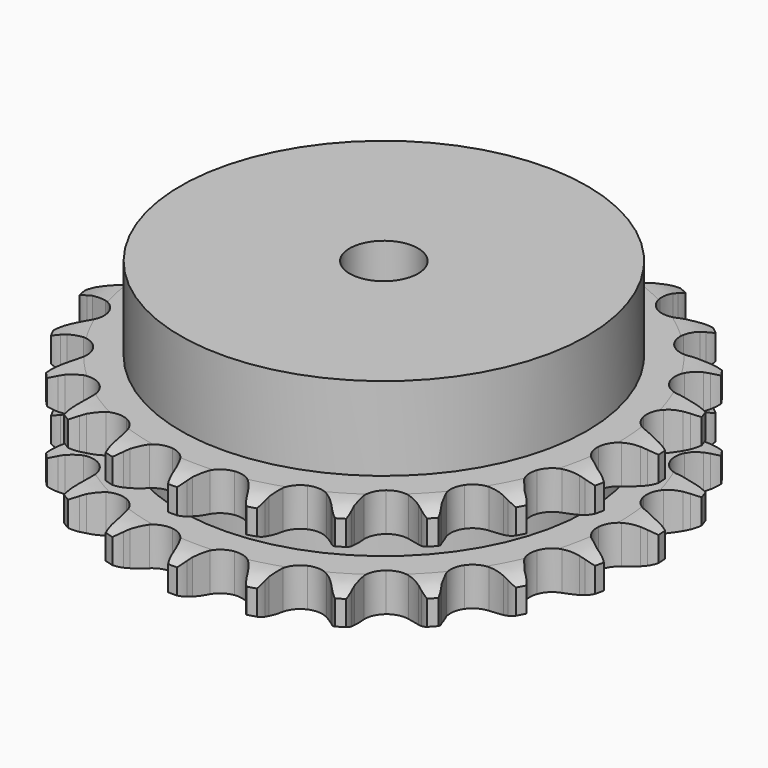
from build123d import *

# Parameters (mm, degrees)
PAD_DEPTH         = 25.5
SKETCH001_R       = 47.5
PAD001_DEPTH      = 45
SKETCH002_R       = 8
POCKET_DEPTH      = 0.001
POCKET_DEPTH_BACK = 45.001


with BuildPart() as part:
    # Sprocket → Pad (new body)
    with BuildSketch(Plane.XY):
        with BuildLine():
            ThreePointArc((-8.611223, 62.651298), (-7.296474, 61.202922), (-6.354928, 59.488323))
            Line((-6.354928, 59.488323), (-5.862367, 58.271851))
            ThreePointArc((-5.862367, 58.271851), (-5.074568, 56.651946), (-4.074665, 55.153641))
            ThreePointArc((-4.074665, 55.153641), (-2.270535, 53.67732), (0, 53.149041))
            ThreePointArc((0, 53.149041), (2.270535, 53.67732), (4.074665, 55.153641))
            ThreePointArc((4.074665, 55.153641), (5.074568, 56.651946), (5.862367, 58.271851))
            Line((5.862367, 58.271851), (6.354928, 59.488323))
            ThreePointArc((6.354928, 59.488323), (7.296474, 61.202922), (8.611223, 62.651298))
            ThreePointArc((8.611223, 62.651298), (9.486449, 60.901917), (9.930488, 58.996874))
            Line((9.930488, 58.996874), (10.076583, 57.69262))
            ThreePointArc((10.076583, 57.69262), (10.398123, 55.92024), (10.956708, 54.207726))
            ThreePointArc((10.956708, 54.207726), (12.29563, 52.299403), (14.33944, 51.178131))
            ThreePointArc((14.33944, 51.178131), (16.668305, 51.074237), (18.80384, 52.009063))
            Line((18.80384, 52.009063), (21.366532, 54.529325))
            ThreePointArc((21.366532, 54.529325), (21.754935, 55.058486), (22.169027, 55.567796))
            ThreePointArc((22.169027, 55.567796), (23.538252, 56.964786), (25.195013, 58.004738))
            ThreePointArc((25.195013, 58.004738), (25.565807, 56.084095), (25.479404, 54.129896))
            Line((25.479404, 54.129896), (25.268198, 52.834592))
            ThreePointArc((25.268198, 52.834592), (25.099633, 51.041185), (25.175473, 49.241472))
            ThreePointArc((25.175473, 49.241472), (25.949885, 47.042678), (27.615389, 45.411572))
            ThreePointArc((27.615389, 45.411572), (29.829863, 44.683211), (32.13842, 45.00721))
            Line((32.13842, 45.00721), (35.286038, 46.742608))
            ThreePointArc((35.286038, 46.742608), (35.802805, 47.147357), (36.338951, 47.526059))
            ThreePointArc((36.338951, 47.526059), (38.034305, 48.501833), (39.910205, 49.056232))
            ThreePointArc((39.910205, 49.056232), (39.749065, 47.106772), (39.13863, 45.248352))
            Line((39.13863, 45.248352), (38.585787, 44.058063))
            ThreePointArc((38.585787, 44.058063), (37.939617, 42.37664), (37.527089, 40.623203))
            ThreePointArc((37.527089, 40.623203), (37.679555, 38.297013), (38.843231, 36.277045))
            ThreePointArc((38.843231, 36.277045), (40.779077, 34.978235), (43.08944, 34.667379))
            Line((43.08944, 34.667379), (46.588541, 35.489206))
            ThreePointArc((46.588541, 35.489206), (47.195344, 35.739524), (47.813782, 35.959532))
            ThreePointArc((47.813782, 35.959532), (49.709528, 36.441721), (51.665439, 36.469449))
            ThreePointArc((51.665439, 36.469449), (50.984317, 34.635756), (49.895123, 33.010944))
            Line((49.895123, 33.010944), (49.041645, 32.01395))
            ThreePointArc((49.041645, 32.01395), (47.965794, 30.569213), (47.095492, 28.992097))
            ThreePointArc((47.095492, 28.992097), (46.614706, 26.711033), (47.190248, 24.452016))
            ThreePointArc((47.190248, 24.452016), (48.703893, 22.679084), (50.844714, 21.756427))
            Line((50.844714, 21.756427), (54.435785, 21.603732))
            ThreePointArc((54.435785, 21.603732), (55.087621, 21.681054), (55.742483, 21.726051))
            ThreePointArc((55.742483, 21.726051), (57.698022, 21.678893), (59.588884, 21.177895))
            ThreePointArc((59.588884, 21.177895), (58.438295, 19.595964), (56.951122, 18.325266))
            Line((56.951122, 18.325266), (55.860308, 17.595509))
            ThreePointArc((55.860308, 17.595509), (54.434567, 16.494607), (53.171037, 15.21078))
            ThreePointArc((53.171037, 15.21078), (52.092656, 13.144018), (52.03738, 10.813492))
            ThreePointArc((52.03738, 10.813492), (53.016564, 8.697929), (54.829068, 7.2319))
            Line((54.829068, 7.2319), (58.245776, 6.116008))
            ThreePointArc((58.245776, 6.116008), (58.894301, 6.014599), (59.537019, 5.881248))
            ThreePointArc((59.537019, 5.881248), (61.407318, 5.308241), (63.092894, 4.315672))
            ThreePointArc((63.092894, 4.315672), (61.558173, 3.102829), (59.783318, 2.280486))
            Line((59.783318, 2.280486), (58.536068, 1.872089))
            ThreePointArc((58.536068, 1.872089), (56.866178, 1.196672), (55.30313, 0.301349))
            ThreePointArc((55.30313, 0.301349), (53.707133, -1.397828), (53.025138, -3.627019))
            ThreePointArc((53.025138, -3.627019), (53.397239, -5.928312), (54.747, -7.828984))
            Line((54.747, -7.828984), (57.735944, -9.825312))
            ThreePointArc((57.735944, -9.825312), (58.33306, -10.09793), (58.915966, -10.39974))
            ThreePointArc((58.915966, -10.39974), (60.562315, -11.4561), (61.917593, -12.866624))
            ThreePointArc((61.917593, -12.866624), (60.112562, -13.620428), (58.181658, -13.933427))
            Line((58.181658, -13.933427), (56.870475, -13.990176))
            ThreePointArc((56.870475, -13.990176), (55.080284, -14.190015), (53.333643, -14.630432))
            ThreePointArc((53.333643, -14.630432), (51.338397, -15.836004), (50.080265, -17.79853))
            ThreePointArc((50.080265, -17.79853), (49.817686, -20.114877), (50.604598, -22.309228))
            Line((50.604598, -22.309228), (52.944101, -25.037934))
            ThreePointArc((52.944101, -25.037934), (53.445523, -25.461543), (53.925386, -25.909427))
            ThreePointArc((53.925386, -25.909427), (55.225681, -27.370793), (56.150147, -29.094661))
            ThreePointArc((56.150147, -29.094661), (54.208677, -29.333521), (52.264931, -29.113961))
            Line((52.264931, -29.113961), (50.987059, -28.814852))
            ThreePointArc((50.987059, -28.814852), (49.209337, -28.524293), (47.408644, -28.477141))
            ThreePointArc((47.408644, -28.477141), (45.162128, -29.099696), (43.421166, -30.650006))
            ThreePointArc((43.421166, -30.650006), (42.543382, -32.809613), (42.709085, -35.134899))
            Line((42.709085, -35.134899), (44.225636, -38.393607))
            ThreePointArc((44.225636, -38.393607), (44.594176, -38.936789), (44.935407, -39.49753))
            ThreePointArc((44.935407, -39.49753), (45.793211, -41.25552), (46.218302, -43.164881))
            ThreePointArc((46.218302, -43.164881), (44.284383, -42.87108), (42.471953, -42.135246))
            Line((42.471953, -42.135246), (41.322167, -41.502464))
            ThreePointArc((41.322167, -41.502464), (39.688759, -40.743055), (37.967562, -40.21183))
            ThreePointArc((37.967562, -40.21183), (35.63639, -40.205196), (33.541719, -41.228311))
            ThreePointArc((33.541719, -41.228311), (32.11383, -43.071011), (31.646034, -45.354774))
            Line((31.646034, -45.354774), (32.227158, -48.901802))
            ThreePointArc((32.227158, -48.901802), (32.435483, -49.524272), (32.612774, -50.156282))
            ThreePointArc((32.612774, -50.156282), (32.964469, -52.080514), (32.858656, -54.033758))
            ThreePointArc((32.858656, -54.033758), (31.075719, -53.229088), (29.529024, -52.031552))
            Line((29.529024, -52.031552), (28.592598, -51.112027))
            ThreePointArc((28.592598, -51.112027), (27.224648, -49.940092), (25.7106, -48.964192))
            ThreePointArc((25.7106, -48.964192), (23.467663, -48.328861), (21.174636, -48.748901))
            ThreePointArc((21.174636, -48.748901), (19.302542, -50.138029), (18.235942, -52.210894))
            Line((18.235942, -52.210894), (17.83854, -55.783173))
            ThreePointArc((17.83854, -55.783173), (17.871198, -56.438766), (17.871401, -57.095172))
            ThreePointArc((17.871401, -57.095172), (17.690902, -59.042935), (17.062035, -60.895199))
            ThreePointArc((17.062035, -60.895199), (15.562311, -59.639338), (14.396063, -58.068916))
            Line((14.396063, -58.068916), (13.742447, -56.930845))
            ThreePointArc((13.742447, -56.930845), (12.741408, -55.433299), (11.5468, -54.085104))
            ThreePointArc((11.5468, -54.085104), (9.558448, -52.868196), (7.237127, -52.654008))
            ThreePointArc((7.237127, -52.654008), (5.059674, -53.486538), (3.473373, -55.194771))
            Line((3.473373, -55.194771), (2.126918, -58.527362))
            ThreePointArc((2.126918, -58.527362), (1.981489, -59.167455), (1.804588, -59.799575))
            ThreePointArc((1.804588, -59.799575), (1.105282, -61.626411), (0, -63.240322))
            ThreePointArc((0, -63.240322), (-1.105282, -61.626411), (-1.804588, -59.799575))
            Line((-1.804588, -59.799575), (-2.126918, -58.527362))
            ThreePointArc((-2.126918, -58.527362), (-2.686803, -56.815273), (-3.473373, -55.194771))
            ThreePointArc((-3.473373, -55.194771), (-5.059674, -53.486538), (-7.237127, -52.654008))
            ThreePointArc((-7.237127, -52.654008), (-9.558448, -52.868196), (-11.5468, -54.085104))
            Line((-11.5468, -54.085104), (-13.742447, -56.930845))
            ThreePointArc((-13.742447, -56.930845), (-14.055179, -57.507965), (-14.396063, -58.068916))
            ThreePointArc((-14.396063, -58.068916), (-15.562311, -59.639338), (-17.062035, -60.895199))
            ThreePointArc((-17.062035, -60.895199), (-17.690902, -59.042935), (-17.871401, -57.095172))
            Line((-17.871401, -57.095172), (-17.83854, -55.783173))
            ThreePointArc((-17.83854, -55.783173), (-17.915746, -53.983518), (-18.235942, -52.210894))
            ThreePointArc((-18.235942, -52.210894), (-19.302542, -50.138029), (-21.174636, -48.748901))
            ThreePointArc((-21.174636, -48.748901), (-23.467663, -48.328861), (-25.7106, -48.964192))
            Line((-25.7106, -48.964192), (-28.592598, -51.112027))
            ThreePointArc((-28.592598, -51.112027), (-29.049438, -51.583372), (-29.529024, -52.031552))
            ThreePointArc((-29.529024, -52.031552), (-31.075719, -53.229088), (-32.858656, -54.033758))
            ThreePointArc((-32.858656, -54.033758), (-32.964469, -52.080514), (-32.612774, -50.156282))
            Line((-32.612774, -50.156282), (-32.227158, -48.901802))
            ThreePointArc((-32.227158, -48.901802), (-31.815961, -47.148052), (-31.646034, -45.354774))
            ThreePointArc((-31.646034, -45.354774), (-32.11383, -43.071011), (-33.541719, -41.228311))
            ThreePointArc((-33.541719, -41.228311), (-35.63639, -40.205196), (-37.967562, -40.21183))
            Line((-37.967562, -40.21183), (-41.322167, -41.502464))
            ThreePointArc((-41.322167, -41.502464), (-41.889233, -41.833076), (-42.471953, -42.135246))
            ThreePointArc((-42.471953, -42.135246), (-44.284383, -42.87108), (-46.218302, -43.164881))
            ThreePointArc((-46.218302, -43.164881), (-45.793211, -41.25552), (-44.935407, -39.49753))
            Line((-44.935407, -39.49753), (-44.225636, -38.393607))
            ThreePointArc((-44.225636, -38.393607), (-43.356531, -36.815831), (-42.709085, -35.134899))
            ThreePointArc((-42.709085, -35.134899), (-42.543382, -32.809613), (-43.421166, -30.650006))
            ThreePointArc((-43.421166, -30.650006), (-45.162128, -29.099696), (-47.408644, -28.477141))
            Line((-47.408644, -28.477141), (-50.987059, -28.814852))
            ThreePointArc((-50.987059, -28.814852), (-51.622295, -28.980212), (-52.264931, -29.113961))
            ThreePointArc((-52.264931, -29.113961), (-54.208677, -29.333521), (-56.150147, -29.094661))
            ThreePointArc((-56.150147, -29.094661), (-55.225681, -27.370793), (-53.925386, -25.909427))
            Line((-53.925386, -25.909427), (-52.944101, -25.037934))
            ThreePointArc((-52.944101, -25.037934), (-51.681545, -23.753148), (-50.604598, -22.309228))
            ThreePointArc((-50.604598, -22.309228), (-49.817686, -20.114877), (-50.080265, -17.79853))
            ThreePointArc((-50.080265, -17.79853), (-51.338397, -15.836004), (-53.333643, -14.630432))
            Line((-53.333643, -14.630432), (-56.870475, -13.990176))
            ThreePointArc((-56.870475, -13.990176), (-57.526768, -13.978019), (-58.181658, -13.933427))
            ThreePointArc((-58.181658, -13.933427), (-60.112562, -13.620428), (-61.917593, -12.866624))
            ThreePointArc((-61.917593, -12.866624), (-60.562315, -11.4561), (-58.915966, -10.39974))
            Line((-58.915966, -10.39974), (-57.735944, -9.825312))
            ThreePointArc((-57.735944, -9.825312), (-56.173576, -8.928803), (-54.747, -7.828984))
            ThreePointArc((-54.747, -7.828984), (-53.397239, -5.928312), (-53.025138, -3.627019))
            ThreePointArc((-53.025138, -3.627019), (-53.707133, -1.397828), (-55.30313, 0.301349))
            Line((-55.30313, 0.301349), (-58.536068, 1.872089))
            ThreePointArc((-58.536068, 1.872089), (-59.164744, 2.06086), (-59.783318, 2.280486))
            ThreePointArc((-59.783318, 2.280486), (-61.558173, 3.102829), (-63.092894, 4.315672))
            ThreePointArc((-63.092894, 4.315672), (-61.407318, 5.308241), (-59.537019, 5.881248))
            Line((-59.537019, 5.881248), (-58.245776, 6.116008))
            ThreePointArc((-58.245776, 6.116008), (-56.49947, 6.557751), (-54.829068, 7.2319))
            ThreePointArc((-54.829068, 7.2319), (-53.016564, 8.697929), (-52.03738, 10.813492))
            ThreePointArc((-52.03738, 10.813492), (-52.092656, 13.144018), (-53.171037, 15.21078))
            Line((-53.171037, 15.21078), (-55.860308, 17.595509))
            ThreePointArc((-55.860308, 17.595509), (-56.414741, 17.946895), (-56.951122, 18.325266))
            ThreePointArc((-56.951122, 18.325266), (-58.438295, 19.595964), (-59.588884, 21.177895))
            ThreePointArc((-59.588884, 21.177895), (-57.698022, 21.678893), (-55.742483, 21.726051))
            Line((-55.742483, 21.726051), (-54.435785, 21.603732))
            ThreePointArc((-54.435785, 21.603732), (-52.635056, 21.557946), (-50.844714, 21.756427))
            ThreePointArc((-50.844714, 21.756427), (-48.703893, 22.679084), (-47.190248, 24.452016))
            ThreePointArc((-47.190248, 24.452016), (-46.614706, 26.711033), (-47.095492, 28.992097))
            Line((-47.095492, 28.992097), (-49.041645, 32.01395))
            ThreePointArc((-49.041645, 32.01395), (-49.480715, 32.501891), (-49.895123, 33.010944))
            ThreePointArc((-49.895123, 33.010944), (-50.984317, 34.635756), (-51.665439, 36.469449))
            ThreePointArc((-51.665439, 36.469449), (-49.709528, 36.441721), (-47.813782, 35.959532))
            Line((-47.813782, 35.959532), (-46.588541, 35.489206))
            ThreePointArc((-46.588541, 35.489206), (-44.866941, 34.959287), (-43.08944, 34.667379))
            ThreePointArc((-43.08944, 34.667379), (-40.779077, 34.978235), (-38.843231, 36.277045))
            ThreePointArc((-38.843231, 36.277045), (-37.679555, 38.297013), (-37.527089, 40.623203))
            Line((-37.527089, 40.623203), (-38.585787, 44.058063))
            ThreePointArc((-38.585787, 44.058063), (-38.876931, 44.64637), (-39.13863, 45.248352))
            ThreePointArc((-39.13863, 45.248352), (-39.749065, 47.106772), (-39.910205, 49.056232))
            ThreePointArc((-39.910205, 49.056232), (-38.034305, 48.501833), (-36.338951, 47.526059))
            Line((-36.338951, 47.526059), (-35.286038, 46.742608))
            ThreePointArc((-35.286038, 46.742608), (-33.771251, 45.767858), (-32.13842, 45.00721))
            ThreePointArc((-32.13842, 45.00721), (-29.829863, 44.683211), (-27.615389, 45.411572))
            ThreePointArc((-27.615389, 45.411572), (-25.949885, 47.042678), (-25.175473, 49.241472))
            Line((-25.175473, 49.241472), (-25.268198, 52.834592))
            ThreePointArc((-25.268198, 52.834592), (-25.389823, 53.479631), (-25.479404, 54.129896))
            ThreePointArc((-25.479404, 54.129896), (-25.565807, 56.084095), (-25.195013, 58.004738))
            ThreePointArc((-25.195013, 58.004738), (-23.538252, 56.964786), (-22.169027, 55.567796))
            Line((-22.169027, 55.567796), (-21.366532, 54.529325))
            ThreePointArc((-21.366532, 54.529325), (-20.170901, 53.182036), (-18.80384, 52.009063))
            ThreePointArc((-18.80384, 52.009063), (-16.668305, 51.074237), (-14.33944, 51.178131))
            ThreePointArc((-14.33944, 51.178131), (-12.29563, 52.299403), (-10.956708, 54.207726))
            Line((-10.956708, 54.207726), (-10.076583, 57.69262))
            ThreePointArc((-10.076583, 57.69262), (-10.019667, 58.346554), (-9.930488, 58.996874))
            ThreePointArc((-9.930488, 58.996874), (-9.486449, 60.901917), (-8.611223, 62.651298))
        make_face()
    extrude(amount=PAD_DEPTH)

    # Sketch → Groove (revolve, cut)
    with BuildSketch(Plane.XZ):
        with BuildLine():
            ThreePointArc((54.775762, 0), (58.35347, 0.405129), (61.75, 1.6))
            Line((61.75, 1.6), (61.75, 7.4))
            ThreePointArc((61.75, 7.4), (58.35347, 8.594871), (54.775762, 9))
            Line((47.5, 9), (54.775762, 9))
            Line((47.5, 16.5), (47.5, 9))
            Line((54.775762, 16.5), (47.5, 16.5))
            ThreePointArc((54.775762, 16.5), (58.35347, 16.905129), (61.75, 18.1))
            Line((61.75, 18.1), (61.75, 23.9))
            ThreePointArc((61.75, 23.9), (58.35347, 25.094871), (54.775762, 25.5))
            Line((54.775762, 25.5), (64.775762, 25.5))
            Line((64.775762, 25.5), (64.775762, 0))
            Line((54.775762, 0), (64.775762, 0))
        make_face()
    revolve(axis=Axis((0, 0, 0), (0, 0, 1)), mode=Mode.SUBTRACT)

    # Sketch001 → Pad001 (join)
    with BuildSketch(Plane.XY):
        Circle(SKETCH001_R)
    extrude(amount=PAD001_DEPTH)

    # Sketch002 → Pocket (cut, two sides)
    with BuildSketch(Plane.XY) as pocket_sk:
        Circle(SKETCH002_R)
    extrude(amount=-POCKET_DEPTH, mode=Mode.SUBTRACT)
    extrude(pocket_sk.sketch, amount=POCKET_DEPTH_BACK, mode=Mode.SUBTRACT)


solid = part.part
